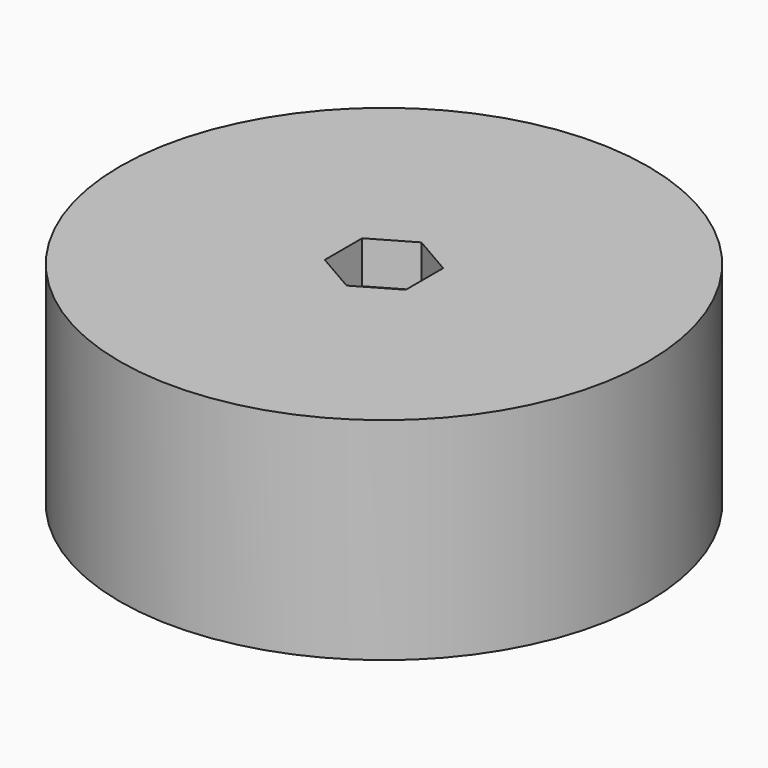
from build123d import *

# Parameters (mm, degrees)
F0_R     = 18.75
F1_DEPTH = 15
F3_DEPTH = 3
F4_R     = 1.6
F5_DEPTH = 25
F6_R     = 3
F7_DEPTH = 7


with BuildPart() as f1:
    # F0 (on Top) → F1 (new body)
    with BuildSketch(Plane.XY):
        Circle(F0_R)
    extrude(amount=F1_DEPTH)

    # F2 (on face) → F3 (cut)
    with BuildSketch(Plane.XY.offset(15)):
        Polygon((2.875, -1.659882), (2.875, 1.659882), (0, 3.319764), (-2.875, 1.659882), (-2.875, -1.659882), (0, -3.319764), align=None)
    extrude(amount=-F3_DEPTH, mode=Mode.SUBTRACT)

    # F4 (on face) → F5 (cut)
    with BuildSketch(Plane.XY.offset(12)):
        Circle(F4_R)
    extrude(amount=-F5_DEPTH, mode=Mode.SUBTRACT)

    # F6 (on face) → F7 (cut)
    with BuildSketch(Plane.XY):
        Circle(F6_R)
    extrude(amount=F7_DEPTH, mode=Mode.SUBTRACT)


solid = f1.part
